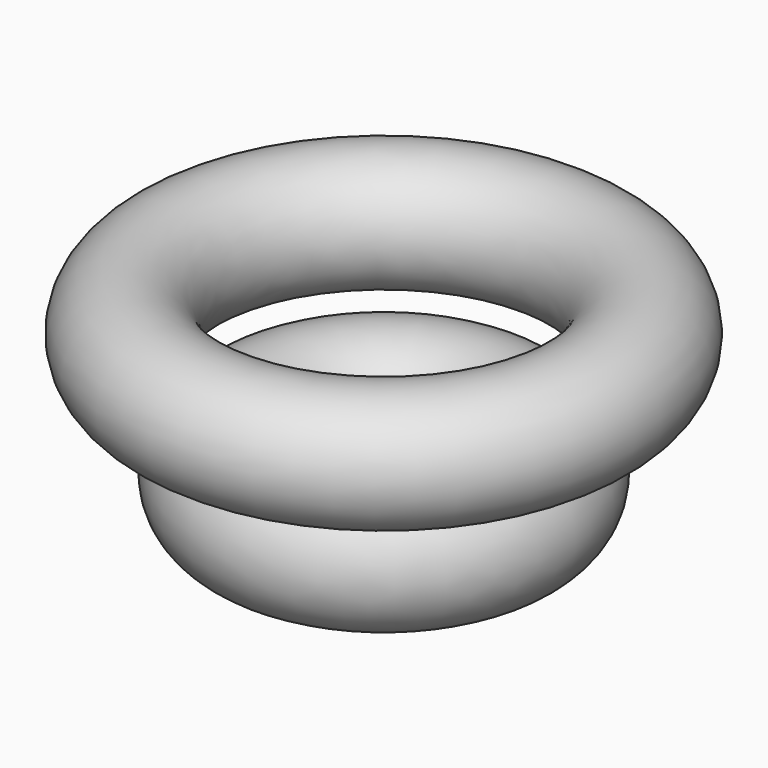
from build123d import *

# Parameters (mm, degrees)
F0_R = 22.449084
F2_R = 19.811829


with BuildPart() as f1:
    # F0 (on Front) → F1 (revolve)
    with BuildSketch(Plane.XZ):
        with Locations((40.600557, 0)):
            Circle(F0_R)
    revolve(axis=Axis((0, 0, 6.715883), (0, 0, -1)))


with BuildPart() as f3:
    # F2 (on Front) → F3 (revolve)
    with BuildSketch(Plane.XZ):
        with Locations((-67.158818, 40.295288)):
            Circle(F2_R)
    revolve(axis=Axis((0, 0, 40.600556), (0, 0, -1)))


solid = Compound([f1.part, f3.part])
